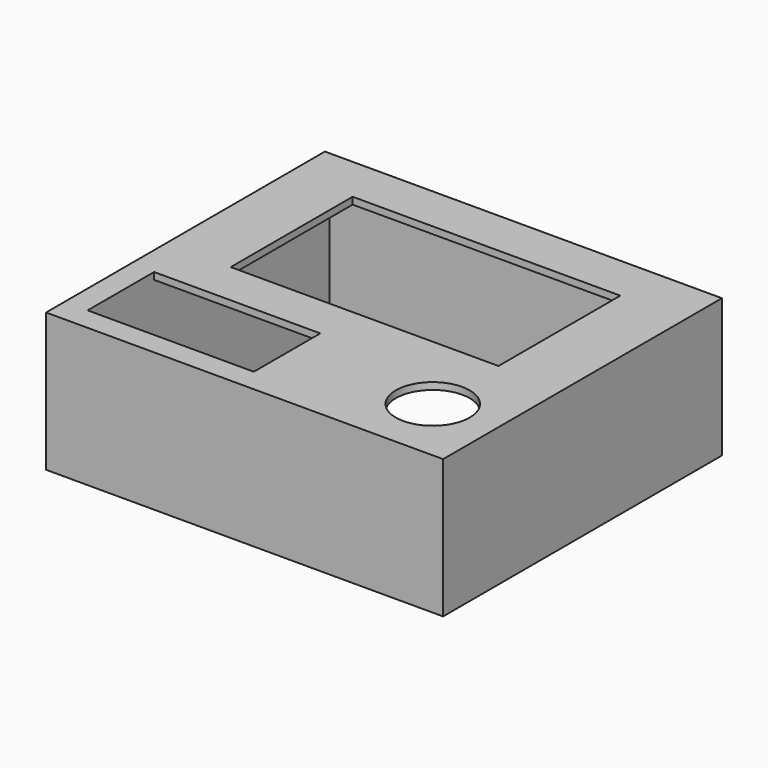
from build123d import *

# Parameters (mm, degrees)
F0_R     = 8
F0_W     = 58
F0_H     = 33
F1_DEPTH = 1.5
F0_W_2   = 86
F0_H_2   = 75.5
F2_DEPTH = 30


with BuildPart() as f1:
    # F0 (on Top) → F1 (new body)
    with BuildSketch(Plane.XY):
        Polygon((-29, 32.75), (-38, 32.75), (-38, -14.75), (-2, -14.75), (-2, -32.75), (38, -32.75), (38, 32.75), (29, 32.75), align=None)
        with Locations((29, -23.05)):
            Circle(F0_R, mode=Mode.SUBTRACT)
        with Locations((0, 11.25)):
            Rectangle(F0_W, F0_H, mode=Mode.SUBTRACT)
    extrude(amount=-F1_DEPTH)

    # F0 (on Top) → F2 (join)
    with BuildSketch(Plane.XY):
        Rectangle(F0_W_2, F0_H_2)
        Polygon((-38, -14.75), (-38, 32.75), (-29, 32.75), (29, 32.75), (38, 32.75), (38, -32.75), (-2, -32.75), (-38, -32.75), align=None, mode=Mode.SUBTRACT)
    extrude(amount=-F2_DEPTH)


solid = f1.part
